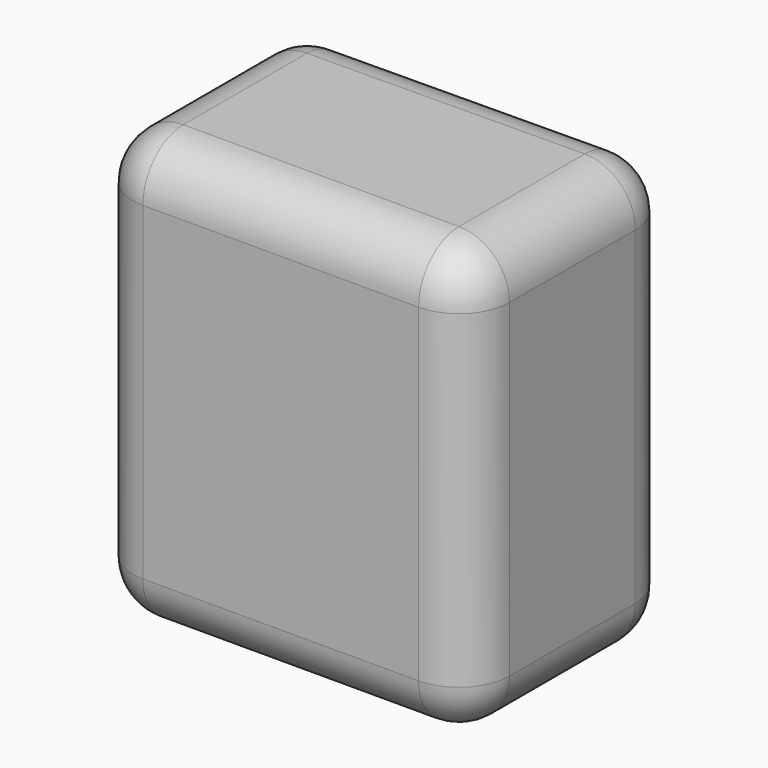
from build123d import *

# Parameters (mm, degrees)
F1_DEPTH = 108.148821
F2_R     = 12.7


with BuildPart() as f1:
    # F0 (on Top) → F1 (new body)
    with BuildSketch(Plane.XY):
        Polygon((34.663156, 65.072834), (-60.097568, 64.200915), (-60.097568, 0), (0, 0), (34.663156, 0), align=None)
    extrude(amount=F1_DEPTH)

    # F2
    f2_edges = [f1.edges().sort_by_distance(p)[0] for p in [
        (-60.097568, 32.100458, 108.148821),
        (34.663156, 32.536417, 108.148821),
        (-60.097568, 32.100458, 0),
        (-12.717206, 64.636875, 0),
        (-12.717206, 0, 0),
        (34.663156, 32.536417, 0),
        (-12.717206, 0, 108.148821),
        (-60.097568, 64.200915, 54.07441),
        (34.663156, 0, 54.07441),
        (34.663156, 65.072834, 54.07441),
        (-60.097568, 0, 54.07441),
        (-12.717206, 64.636875, 108.148821),
    ]]
    fillet(f2_edges, radius=F2_R)


solid = f1.part
